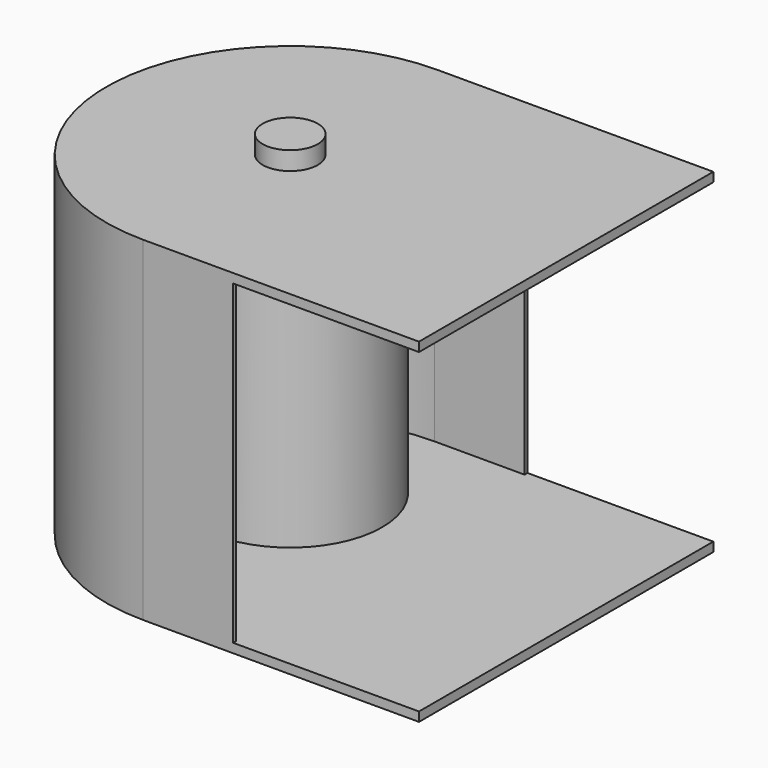
from build123d import *

# Parameters (mm, degrees)
F4_DEPTH  = 5
F6_DEPTH  = 5
F8_DEPTH  = 172
F9_R      = 15
F10_DEPTH = 10


with BuildPart() as f2:
    # F0 (on Front) → F2 (revolve)
    with BuildSketch(Plane.XZ):
        Polygon((10, 78.5), (0, 78.5), (0, -93.5), (10, -93.5), (10, -78.5), (50, -78.5), (50, 63.5), (10, 63.5), align=None)
    revolve(axis=Axis((0, 0, -2.2203251719), (0, 0, -1)))

    # F3 (on face) → F4 (join)
    with BuildSketch(Plane.XY.offset(78.5)):
        with BuildLine():
            Line((150, 100), (0, 100))
            ThreePointArc((0, 100), (-100, 0), (0, -100))
            Line((0, -100), (150, -100))
            Line((150, -100), (150, 100))
        make_face()
    extrude(amount=F4_DEPTH)

    # F5 (on face) → F6 (join)
    with BuildSketch(Plane(origin=(0, 0, -93.5), x_dir=(1, 0, 0), z_dir=(0, 0, -1))):
        with BuildLine():
            ThreePointArc((0, 100), (-100, 0), (0, -100))
            Line((0, -100), (150, -100))
            Line((150, -100), (150, 100))
            Line((150, 100), (0, 100))
        make_face()
    extrude(amount=F6_DEPTH)

    # F7 (on face) → F8 (join, through all)
    with BuildSketch(Plane.XY.offset(-93.5)):
        with BuildLine():
            Line((49, 100), (0, 100))
            ThreePointArc((0, 100), (-100, 0), (0, -100))
            Line((0, -100), (49, -100))
            Line((49, -100), (49, -98))
            Line((49, -98), (0, -98))
            ThreePointArc((0, -98), (-98, 0), (0, 98))
            Line((0, 98), (49, 98))
            Line((49, 98), (49, 100))
        make_face()
    extrude(amount=F8_DEPTH)

    # F9 (on face) → F10 (join)
    with BuildSketch(Plane.XY.offset(83.5)):
        Circle(F9_R)
    extrude(amount=F10_DEPTH)


solid = f2.part
